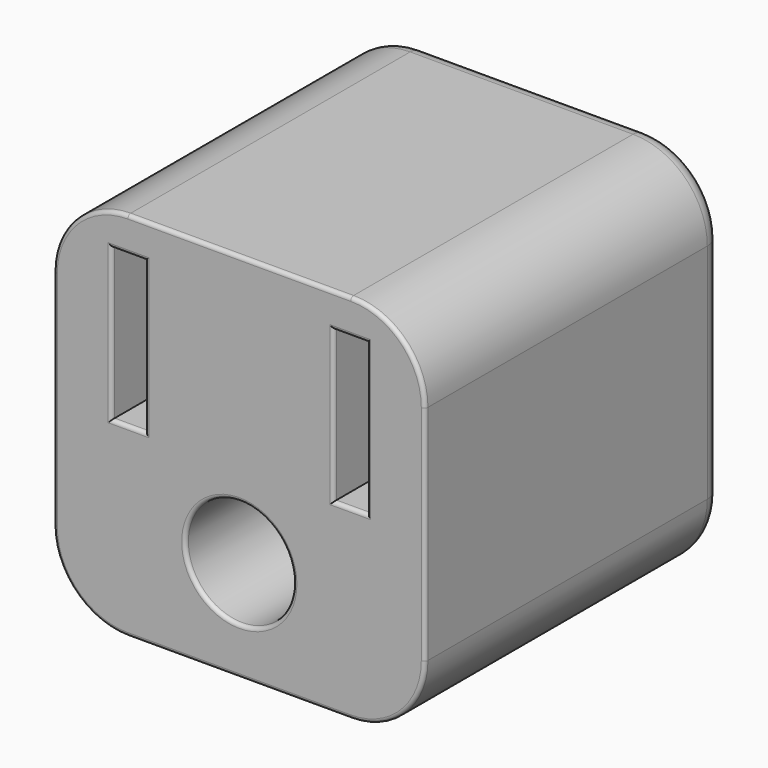
from build123d import *

# Parameters (mm, degrees)
F0_W     = 25.4
F0_H     = 25.4
F1_DEPTH = 25.4
F2_W     = 2.275166
F2_H     = 10.333045
F2_R     = 3.687408
F3_DEPTH = 15.494
F4_R     = 5.08
F5_R     = 1.27
F6_R     = 0.254


with BuildPart() as f1:
    # F0 (on Front) → F1 (new body)
    with BuildSketch(Plane.XZ):
        Rectangle(F0_W, F0_H)
    extrude(amount=F1_DEPTH)

    # F2 (on face) → F3 (cut)
    with BuildSketch(Plane.XZ.offset(25.4)):
        with Locations((-7.583885, 5.166523)):
            Rectangle(F2_W, F2_H)
        with Locations((7.583885, 5.166523)):
            Rectangle(F2_W, F2_H)
        with Locations((0, -5.782713)):
            Circle(F2_R)
    extrude(amount=-F3_DEPTH, mode=Mode.SUBTRACT)

    # F4
    f4_edges = [f1.edges().sort_by_distance(p)[0] for p in [
        (-12.7, -12.7, 12.7),
        (12.7, -12.7, 12.7),
        (-12.7, -12.7, -12.7),
        (12.7, -12.7, -12.7),
    ]]
    fillet(f4_edges, radius=F4_R)

    # F5
    f5_edges = [f1.edges().sort_by_distance(p)[0] for p in [
        (0, 0, 12.7),
        (11.212102, 0, 11.212102),
        (-11.212102, 0, 11.212102),
        (12.7, 0, 0),
        (-12.7, 0, 0),
        (11.212102, 0, -11.212102),
        (-11.212102, 0, -11.212102),
        (0, 0, -12.7),
    ]]
    fillet(f5_edges, radius=F5_R)

    # F6
    f6_edges = [f1.edges().sort_by_distance(p)[0] for p in [
        (0, -25.4, 12.7),
        (11.212102, -25.4, 11.212102),
        (-11.212102, -25.4, 11.212102),
        (12.7, -25.4, 0),
        (-12.7, -25.4, 0),
        (11.212102, -25.4, -11.212102),
        (-11.212102, -25.4, -11.212102),
        (0, -25.4, -12.7),
        (-3.687408, -25.4, -5.782713),
        (-8.721468, -25.4, 5.166523),
        (-7.583885, -25.4, 0),
        (-6.446302, -25.4, 5.166523),
        (-7.583885, -25.4, 10.333045),
        (7.583885, -25.4, 10.333045),
        (6.446302, -25.4, 5.166523),
        (7.583885, -25.4, 0),
        (8.721468, -25.4, 5.166523),
    ]]
    fillet(f6_edges, radius=F6_R)


solid = f1.part
